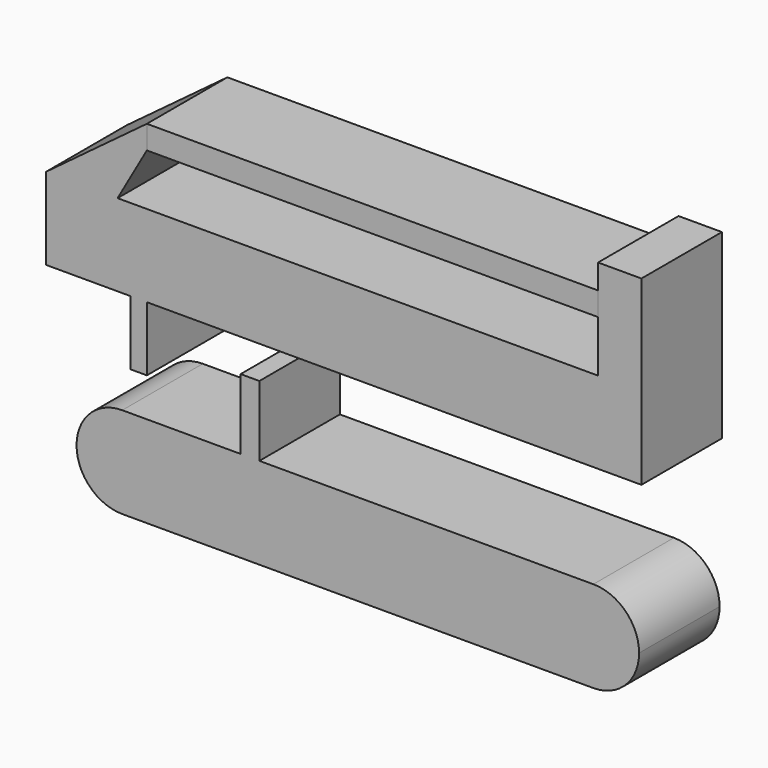
from build123d import *

# Parameters (mm, degrees)
F0_W     = 112.08411
F0_H     = 5.822547
F1_DEPTH = 25
F0_W_2   = 4.075788
F0_H_2   = 16.012016
F2_DEPTH = 25
F0_W_3   = 4.65804
F0_H_3   = 17.467653
F3_DEPTH = 25


with BuildPart() as f1:
    # F0 (on Front) → F1 (new body)
    with BuildSketch(Plane.XZ):
        with Locations((12.372924, 54.586414)):
            Rectangle(F0_W, F0_H)
    extrude(amount=F1_DEPTH)


with BuildPart() as f2:
    # F0 (on Front) → F2 (new body)
    with BuildSketch(Plane.XZ):
        Polygon((-43.669131, 57.497688), (-68.706103, 38.865529), (-50.947323, 38.865529), (-43.669131, 51.675141), align=None)
        Polygon((-50.947323, 38.865529), (-68.706103, 38.865529), (-68.706103, 18.4866), (-47.744919, 18.4866), (-43.669131, 18.4866), (79.186693, 18.4866), (79.186693, 38.865529), (68.414979, 38.865529), align=None)
        Polygon((68.414979, 51.675141), (68.414979, 38.865529), (79.186693, 38.865529), (79.186693, 63.611373), (68.414979, 63.611373), (68.414979, 57.497688), align=None)
        with Locations((-45.707025, 10.480592)):
            Rectangle(F0_W_2, F0_H_2)
    extrude(amount=F2_DEPTH)


with BuildPart() as f3:
    # F0 (on Front) → F3 (new body)
    with BuildSketch(Plane.XZ):
        with BuildLine():
            Line((-20.378929, -7.132625), (-49.782813, -7.132625))
            ThreePointArc((-49.782813, -7.132625), (-41.75434, -10.458127), (-38.428838, -18.486599))
            ThreePointArc((-38.428838, -18.486599), (-41.75434, -26.515072), (-49.782813, -29.840574))
            Line((-49.782813, -29.840574), (67.250468, -29.840574))
            ThreePointArc((67.250468, -29.840574), (55.896494, -18.486599), (67.250468, -7.132625))
            Line((67.250468, -7.132625), (-15.720889, -7.132625))
            Line((-15.720889, -7.132625), (-20.378929, -7.132625))
        make_face()
        with Locations((-18.049909, 1.601201)):
            Rectangle(F0_W_3, F0_H_3)
        with BuildLine():
            ThreePointArc((-38.428838, -18.486599), (-41.75434, -10.458127), (-49.782813, -7.132625))
            Line((-49.782813, -7.132625), (-49.782813, -29.840574))
            ThreePointArc((-49.782813, -29.840574), (-41.75434, -26.515072), (-38.428838, -18.486599))
        make_face()
        with BuildLine():
            Line((-49.782813, -29.840574), (-49.782813, -7.132625))
            ThreePointArc((-49.782813, -7.132625), (-61.136787, -18.486599), (-49.782813, -29.840574))
        make_face()
        with BuildLine():
            ThreePointArc((67.250468, -7.132625), (55.896494, -18.486599), (67.250468, -29.840574))
            Line((67.250468, -29.840574), (67.250468, -7.132625))
        make_face()
        with BuildLine():
            Line((67.250468, -7.132625), (67.250468, -29.840574))
            ThreePointArc((67.250468, -29.840574), (75.27894, -26.515072), (78.604442, -18.486599))
            ThreePointArc((78.604442, -18.486599), (75.27894, -10.458127), (67.250468, -7.132625))
        make_face()
    extrude(amount=F3_DEPTH)


solid = Compound([f1.part, f2.part, f3.part])
